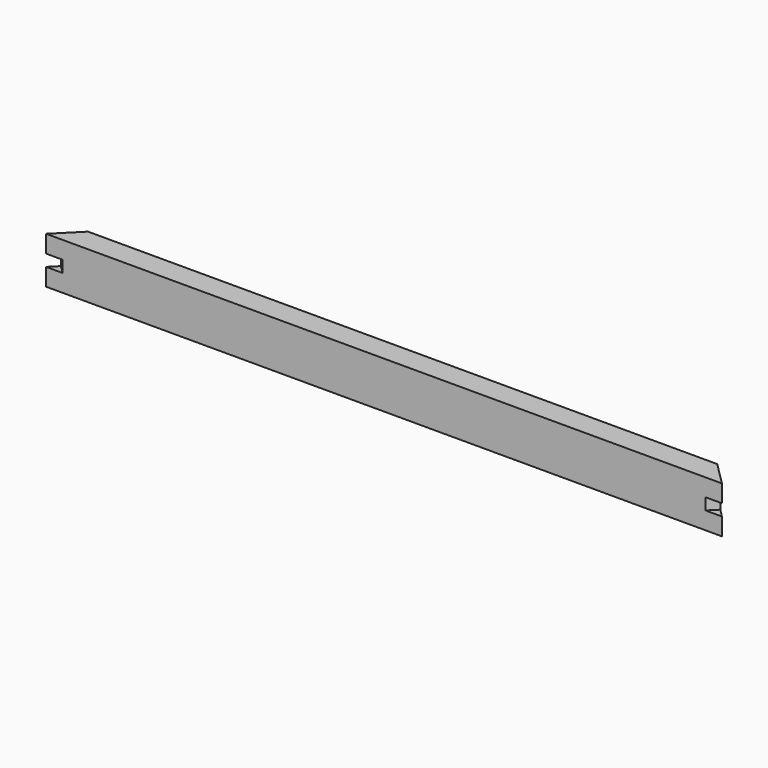
from build123d import *

# Parameters (mm, degrees)
F0_W     = 368.3
F0_H     = 25.4
F1_DEPTH = 12.7
F2_W     = 6.35
F2_H     = 6.35
F3_DEPTH = 368.301
F5_DEPTH = 25.401
F6_W     = 6.35
F6_H     = 6.35
F7_DEPTH = 260.428428
F8_W     = 6.35
F8_H     = 6.35
F9_DEPTH = 260.428428


with BuildPart() as f1:
    # F0 (on Front) → F1 (new body)
    with BuildSketch(Plane.XZ):
        with Locations((0, 12.7)):
            Rectangle(F0_W, F0_H)
    extrude(amount=F1_DEPTH)

    # F2 (on face) → F3 (cut, through all)
    with BuildSketch(Plane.YZ.offset(184.15)):
        with Locations((-3.175, 15.875)):
            Rectangle(F2_W, F2_H)
    extrude(amount=-F3_DEPTH, mode=Mode.SUBTRACT)

    # F4 (on face) → F5 (cut, through all)
    with BuildSketch(Plane.XY.offset(25.4)):
        Polygon((-171.45, 0), (-184.15, 0), (-184.15, -12.7), align=None)
        Polygon((171.45, 0), (184.15, -12.7), (184.15, 0), align=None)
    extrude(amount=-F5_DEPTH, mode=Mode.SUBTRACT)

    # F6 (on face) → F7 (cut, through all)
    with BuildSketch(Plane(origin=(85.725, 85.725, 0), x_dir=(-0.707107, 0.707107, 0), z_dir=(0.707107, 0.707107, 0))):
        with Locations((-136.01897, 12.7)):
            Rectangle(F6_W, F6_H)
    extrude(amount=-F7_DEPTH, mode=Mode.SUBTRACT)

    # F8 (on face) → F9 (cut, through all)
    with BuildSketch(Plane(origin=(-85.725, 85.725, 0), x_dir=(-0.707107, -0.707107, 0), z_dir=(-0.707107, 0.707107, 0))):
        with Locations((136.01897, 12.7)):
            Rectangle(F8_W, F8_H)
    extrude(amount=-F9_DEPTH, mode=Mode.SUBTRACT)


solid = f1.part
